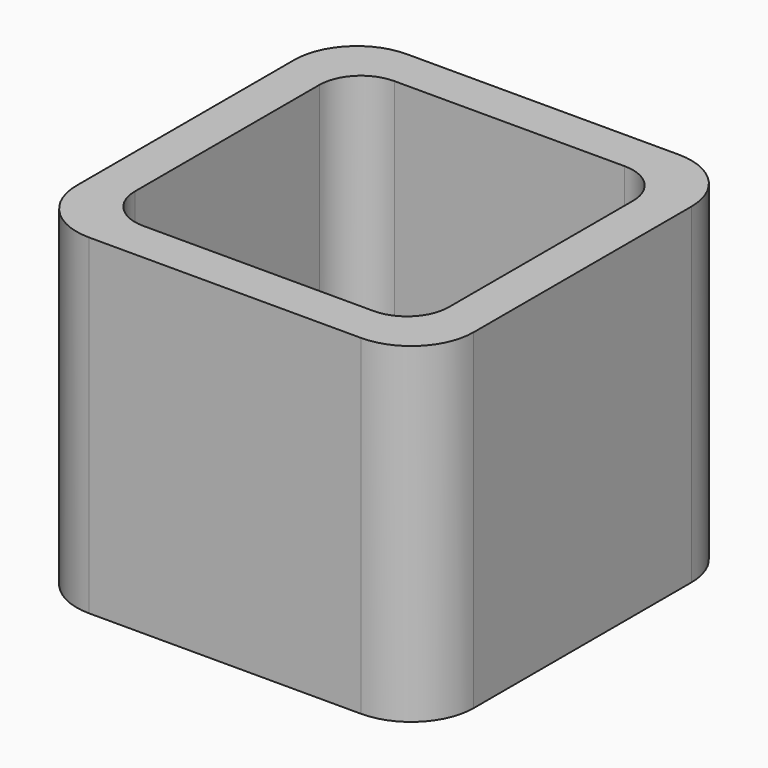
from build123d import *

# Parameters (mm, degrees)
EXTRUDE_DEPTH = 50


with BuildPart() as part:
    # Sketch → Extrude (new body)
    with BuildSketch(Plane.XY):
        with BuildLine():
            Line((-20.55, 30), (20.55, 30))
            ThreePointArc((30, 20.55), (27.232159, 27.232159), (20.55, 30))
            Line((30, 20.55), (30, -20.55))
            ThreePointArc((20.55, -30), (27.232159, -27.232159), (30, -20.55))
            Line((20.55, -30), (-20.55, -30))
            ThreePointArc((-30, -20.55), (-27.232159, -27.232159), (-20.55, -30))
            Line((-30, -20.55), (-30, 20.55))
            ThreePointArc((-20.55, 30), (-27.232159, 27.232159), (-30, 20.55))
        make_face()
        with BuildLine():
            Line((-17.4, 23.7), (17.4, 23.7))
            ThreePointArc((23.7, 17.4), (21.854773, 21.854773), (17.4, 23.7))
            Line((23.7, 17.4), (23.7, -17.4))
            ThreePointArc((17.4, -23.7), (21.854773, -21.854773), (23.7, -17.4))
            Line((17.4, -23.7), (-17.4, -23.7))
            ThreePointArc((-23.7, -17.4), (-21.854773, -21.854773), (-17.4, -23.7))
            Line((-23.7, -17.4), (-23.7, 17.4))
            ThreePointArc((-17.4, 23.7), (-21.854773, 21.854773), (-23.7, 17.4))
        make_face(mode=Mode.SUBTRACT)
    extrude(amount=EXTRUDE_DEPTH)


solid = part.part
